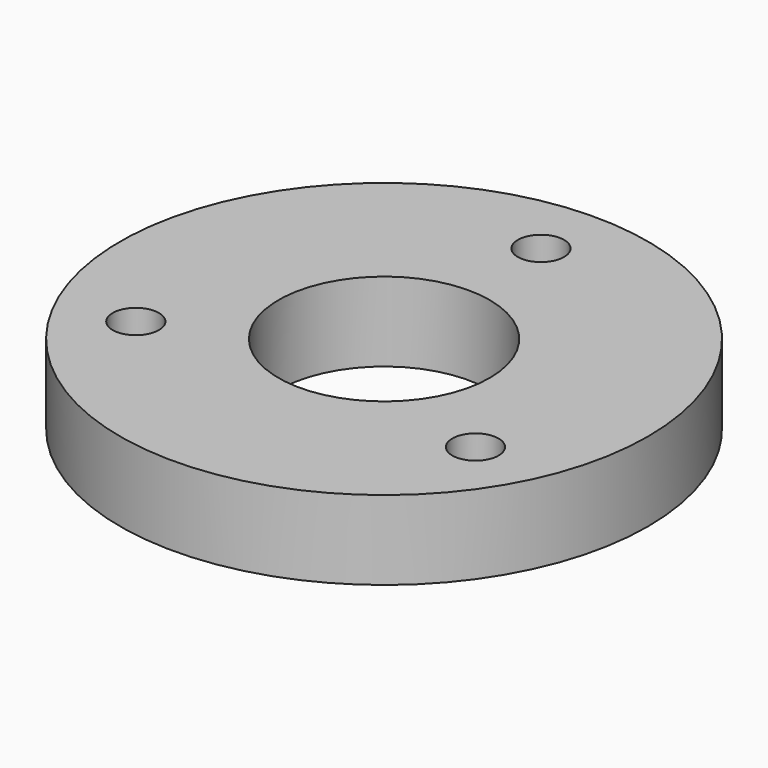
from build123d import *

# Parameters (mm, degrees)
F0_R     = 63.5
F0_R_2   = 25.4
F1_DEPTH = 19.05
F2_R     = 5.567041
F3_DEPTH = 25.4


with BuildPart() as f1:
    # F0 (on Top) → F1 (new body)
    with BuildSketch(Plane.XY):
        Circle(F0_R)
        Circle(F0_R_2, mode=Mode.SUBTRACT)
    extrude(amount=F1_DEPTH)

    # F2 (on face) → F3 (cut)
    with BuildSketch(Plane.XY.offset(19.05)):
        with Locations((0, 47.180733)):
            Circle(F2_R)
        with Locations((-40.859714, -23.590367)):
            Circle(F2_R)
        with Locations((40.859714, -23.590367)):
            Circle(F2_R)
    extrude(amount=-F3_DEPTH, mode=Mode.SUBTRACT)


solid = f1.part
